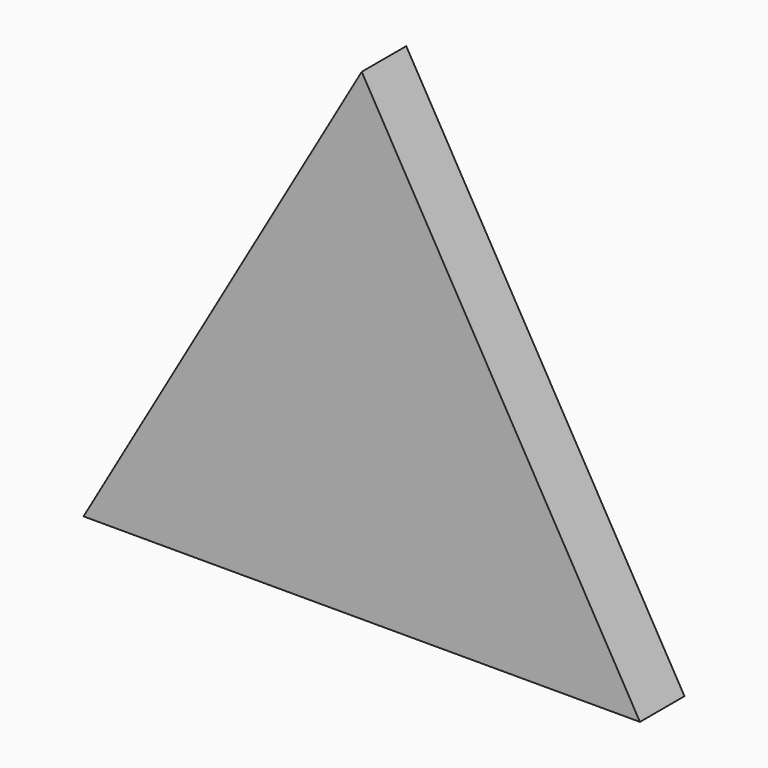
from build123d import *

# Parameters (mm, degrees)
F1_DEPTH = 25.4


with BuildPart() as f1:
    # F0 (on Front) → F1 (new body)
    with BuildSketch(Plane.XZ):
        Polygon((0.001845, -81.506963), (127.001845, -81.503767), (-0.00369, 138.46349), align=None)
        Polygon((-126.998155, -81.510158), (0.001845, -81.506963), (-0.00369, 138.46349), (-5.694555, 128.60605), align=None)
    extrude(amount=F1_DEPTH)


solid = f1.part
